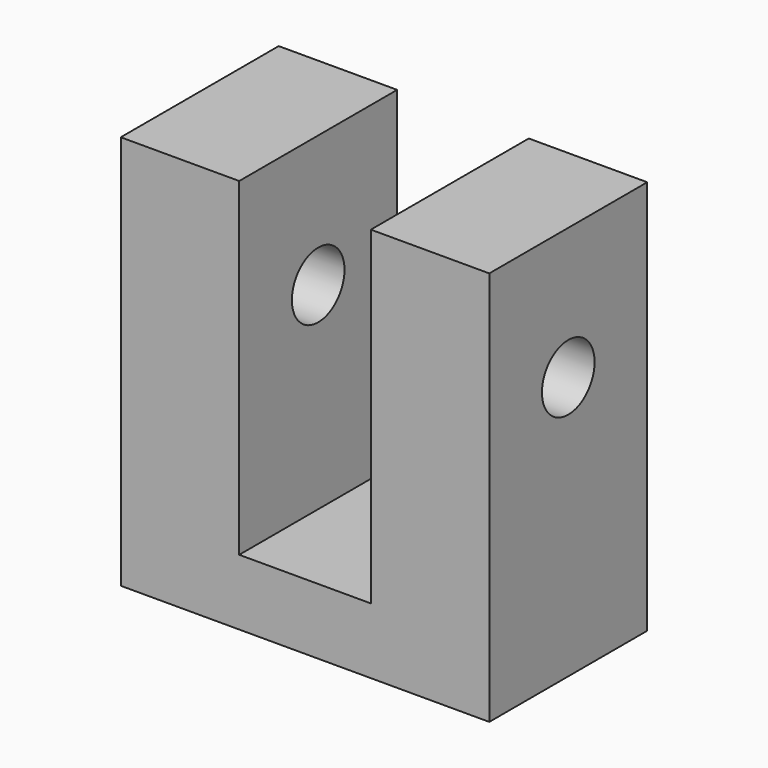
from build123d import *

# Parameters (mm, degrees)
F0_W     = 19.05
F0_H     = 38.1
F0_R     = 3.175
F1_DEPTH = 35.56
F2_R     = 3.175
F3_DEPTH = 6.35
F4_W     = 12.7
F4_H     = 31.75
F5_DEPTH = 35.56


with BuildPart() as f1:
    # F0 (on Right) → F1 (new body)
    with BuildSketch(Plane.YZ):
        with Locations((0.13327, -0.423332)):
            Rectangle(F0_W, F0_H)
        with Locations((0.13327, 5.926668)):
            Circle(F0_R, mode=Mode.SUBTRACT)
    extrude(amount=F1_DEPTH)

    # F2 (on face) → F3 (cut)
    with BuildSketch(Plane(origin=(0, 0, -19.473332), x_dir=(1, 0, 0), z_dir=(0, 0, -1))):
        with Locations((4.7752, 3.04173)):
            Circle(F2_R)
        with Locations((30.7848, 3.04173)):
            Circle(F2_R)
    extrude(amount=-F3_DEPTH, mode=Mode.SUBTRACT)

    # F4 (on face) → F5 (cut)
    with BuildSketch(Plane.XZ.offset(9.39173)):
        with Locations((17.78, 2.751668)):
            Rectangle(F4_W, F4_H)
    extrude(amount=-F5_DEPTH, mode=Mode.SUBTRACT)


solid = f1.part
